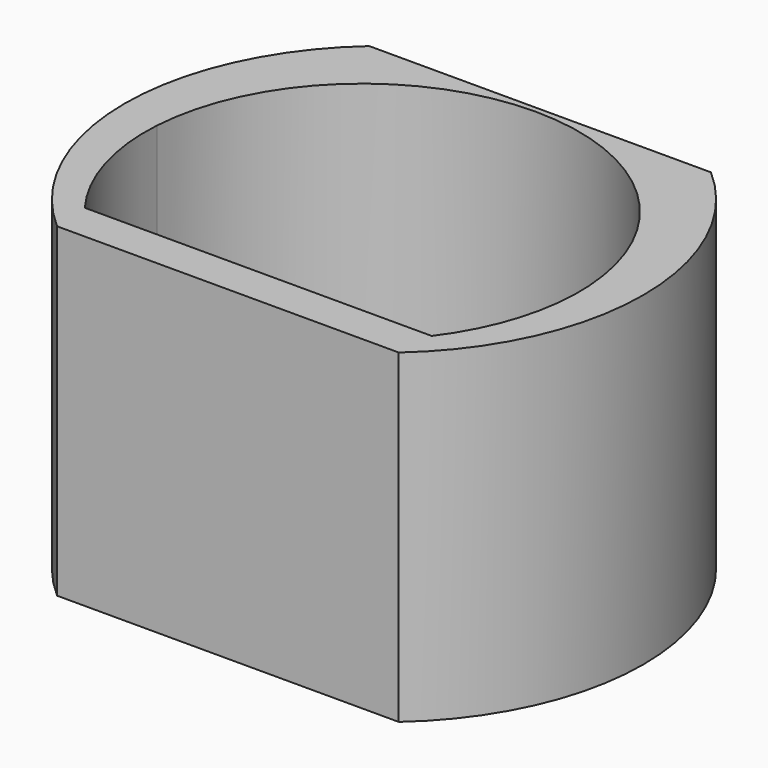
from build123d import *

# Parameters (mm, degrees)
F1_DEPTH = 1.5


with BuildPart() as f1:
    # F0 (on Top) → F1 (new body, symmetric)
    with BuildSketch(Plane.XY):
        with BuildLine():
            Line((0, -1.8), (1.57598, -1.8))
            ThreePointArc((1.57598, -1.8), (2.392428, 0), (1.57598, 1.8))
            Line((1.57598, 1.8), (0, 1.8))
            Line((0, 1.8), (-1.57598, 1.8))
            ThreePointArc((-1.57598, 1.8), (-2.392428, 0), (-1.57598, -1.8))
            Line((-1.57598, -1.8), (0, -1.8))
        make_face()
        with BuildLine():
            Line((1.6, -1.45), (-1.6, -1.45))
            ThreePointArc((-1.6, -1.45), (-1.916213, -0.822825), (-1.99609, -0.125))
            ThreePointArc((-1.99609, -0.125), (0, 1.75), (1.99609, -0.125))
            ThreePointArc((1.99609, -0.125), (1.916213, -0.822825), (1.6, -1.45))
        make_face(mode=Mode.SUBTRACT)
    extrude(amount=F1_DEPTH, both=True)


solid = f1.part
